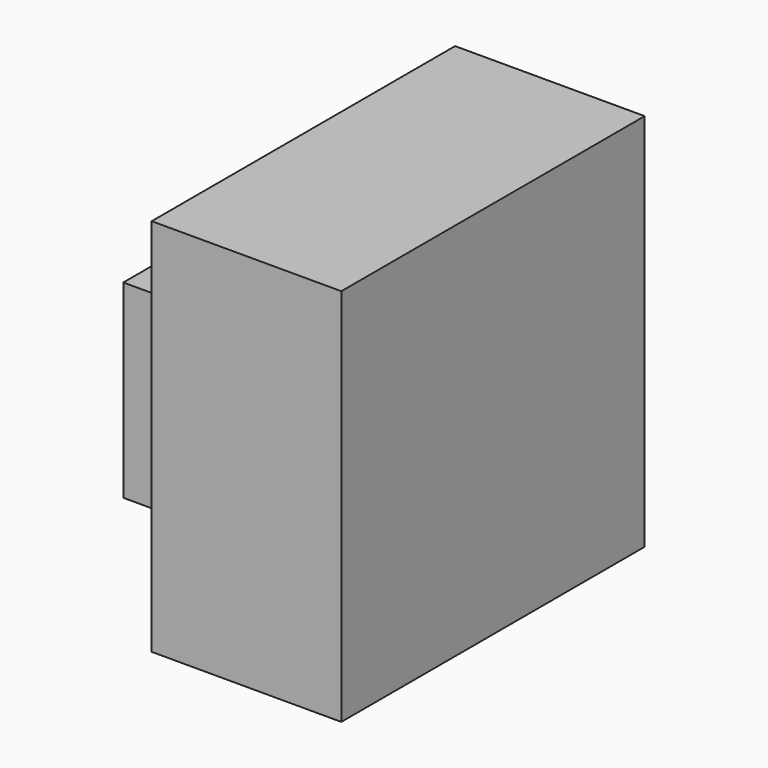
from build123d import *

# Parameters (mm, degrees)
F1_W     = 25.4
F1_H     = 25.4
F2_DEPTH = 25.4
F0_W     = 25.4
F0_H     = 50.8
F3_DEPTH = 50.8
F7_DEPTH = 25.4
F5_W     = 25.4
F5_H     = 50.8
F8_DEPTH = 50.8


with BuildPart() as f2:
    # F1 (on Right) → F2 (new body)
    with BuildSketch(Plane.YZ):
        with Locations((-12.7, 15.4623677161)):
            Rectangle(F1_W, F1_H)
    extrude(amount=F2_DEPTH)


with BuildPart() as f3:
    # F0 (on Front) → F3 (new body)
    with BuildSketch(Plane.XZ):
        with Locations((-18.8699130297, 27.4796054423)):
            Rectangle(F0_W, F0_H)
    extrude(amount=F3_DEPTH)


with BuildPart() as f7:
    # F6 (on Front) → F7 (new body)
    with BuildSketch(Plane.XZ):
        Polygon((-49.5253019035, 0), (-24.1253019035, 0), (-23.6774347723, 25.4), (-49.5253019035, 25.4), align=None)
    extrude(amount=F7_DEPTH)

    # F5 (on Front) → F8 (join)
    with BuildSketch(Plane.XZ):
        with Locations((-12.7, 25.4)):
            Rectangle(F5_W, F5_H)
    extrude(amount=F8_DEPTH)


solid = f7.part
